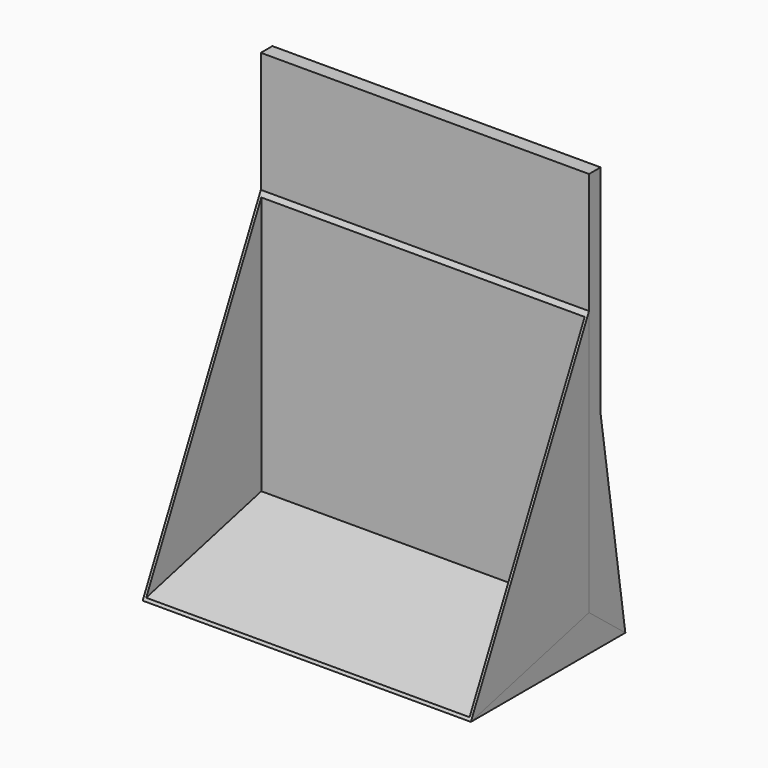
from build123d import *

# Parameters (mm, degrees)
F1_DEPTH = 172.72
F2_DEPTH = 172.72
F3_DEPTH = 172.72
F4_T     = -1.27
F5_T     = -1.27


with BuildPart() as f1:
    # F0 (on Right) → F1 (new body)
    with BuildSketch(Plane.YZ):
        Polygon((77.72243, 158.75), (0, 0), (77.72243, 19.05), align=None)
    extrude(amount=-F1_DEPTH)

    # F4
    f4_openings = [f1.faces().sort_by_distance(p)[0] for p in [
        (-86.36, 38.861215, 79.375),
    ]]
    offset(amount=F4_T, openings=f4_openings)


with BuildPart() as f2:
    # F0 (on Right) → F2 (new body)
    with BuildSketch(Plane.YZ):
        Polygon((77.72243, 19.05), (101.6, 0), (85.34243, 108.088437), (77.72243, 158.75), align=None)
        Polygon((77.72243, 222.25), (77.72243, 158.75), (85.34243, 108.088437), (85.34243, 222.25), align=None)
    extrude(amount=-F2_DEPTH)


with BuildPart() as f3:
    # F0 (on Right) → F3 (new body)
    with BuildSketch(Plane.YZ):
        Polygon((77.72243, 19.05), (0, 0), (101.6, 0), align=None)
    extrude(amount=-F3_DEPTH)

    # F5
    f5_openings = [f3.faces().sort_by_distance(p)[0] for p in [
        (-86.36, 50.8, 0),
    ]]
    offset(amount=F5_T, openings=f5_openings)


solid = Compound([f1.part, f2.part, f3.part])
